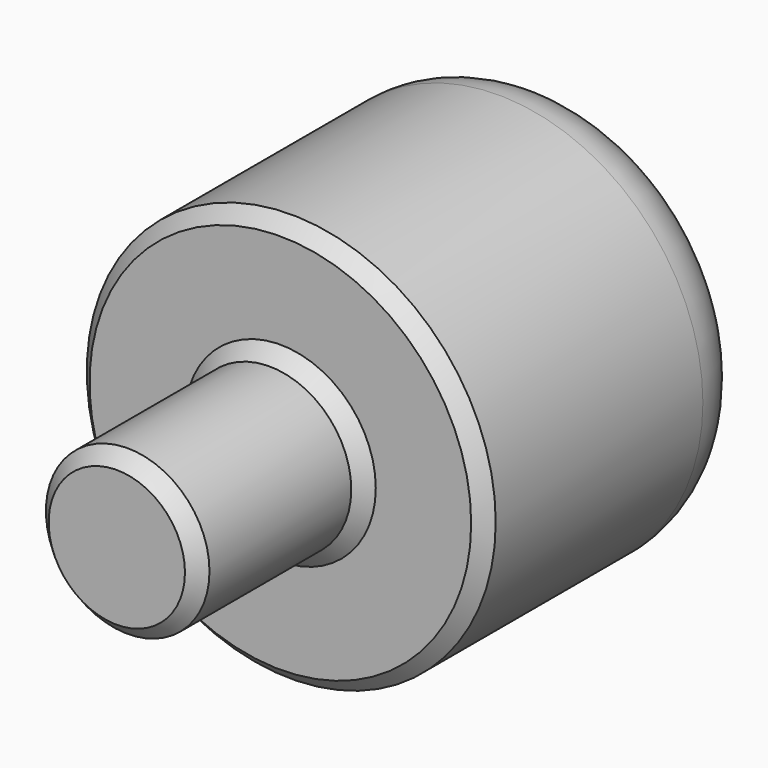
from build123d import *

# Parameters (mm, degrees)
F0_R     = 15
F1_DEPTH = 25
F2_R     = 6
F3_DEPTH = 15
F4_R     = 5
F5_SIZE  = 1


with BuildPart() as f1:
    # F0 (on Front) → F1 (new body)
    with BuildSketch(Plane.XZ):
        Circle(F0_R)
    extrude(amount=F1_DEPTH)

    # F2 (on face) → F3 (join)
    with BuildSketch(Plane.XZ.offset(25)):
        Circle(F2_R)
    extrude(amount=F3_DEPTH)

    # F4
    f4_edges = [f1.edges().sort_by_distance(p)[0] for p in [
        (-15, 0, 0),
    ]]
    fillet(f4_edges, radius=F4_R)

    # F5
    f5_edges = [f1.edges().sort_by_distance(p)[0] for p in [
        (-6, -40, 0),
        (-6, -25, 0),
        (-15, -25, 0),
    ]]
    chamfer(f5_edges, length=F5_SIZE)


solid = f1.part
